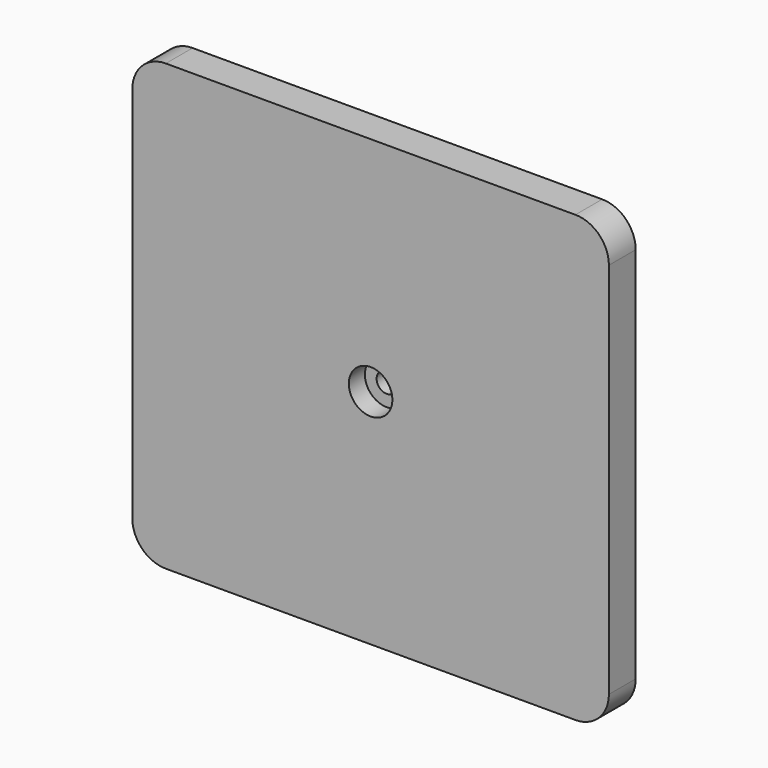
from build123d import *

# Parameters (mm, degrees)
F0_W           = 71.148194
F0_H           = 66.397064
F1_DEPTH       = 5
F3_D           = 3
F3_CBORE_D     = 6.5
F3_CBORE_DEPTH = 3
F4_R           = 5


with BuildPart() as f1:
    # F0 (on Front) → F1 (new body)
    with BuildSketch(Plane.XZ):
        Rectangle(F0_W, F0_H)
    extrude(amount=F1_DEPTH)

    # F3 (through all)
    with Locations(Plane.XZ.offset(5)):
        with Locations((0, 0)):
            CounterBoreHole(F3_D / 2, F3_CBORE_D / 2, F3_CBORE_DEPTH)

    # F4
    f4_edges = [f1.edges().sort_by_distance(p)[0] for p in [
        (35.574097, -2.5, 33.198532),
        (-35.574097, -2.5, 33.198532),
        (35.574097, -2.5, -33.198532),
        (-35.574097, -2.5, -33.198532),
    ]]
    fillet(f4_edges, radius=F4_R)


solid = f1.part
